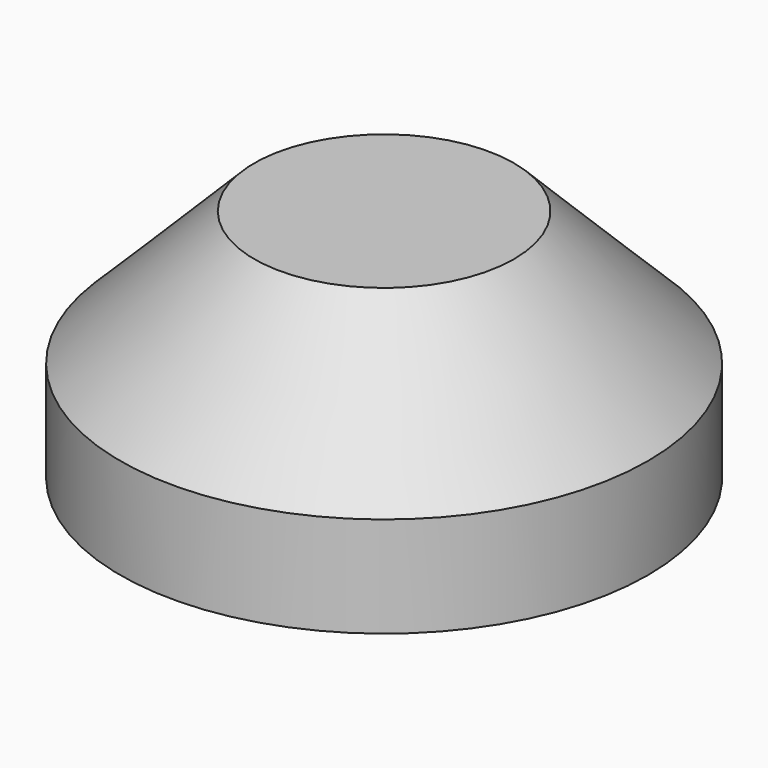
from build123d import *

# Parameters (mm, degrees)
F0_R          = 39.385
F1_DEPTH      = 25
F1_DEPTH_BACK = 10
F2_SIZE       = 20
F3_T          = -2


with BuildPart() as f1:
    # F0 (on Top) → F1 (new body, two sides)
    with BuildSketch(Plane.XY) as f1_sk:
        Circle(F0_R)
    extrude(amount=F1_DEPTH)
    extrude(f1_sk.sketch, amount=-F1_DEPTH_BACK)

    # F2
    f2_edges = [f1.edges().sort_by_distance(p)[0] for p in [
        (-39.385, 0, 25),
    ]]
    chamfer(f2_edges, length=F2_SIZE)

    # F3
    f3_openings = [f1.faces().sort_by_distance(p)[0] for p in [
        (0, 0, -10),
    ]]
    offset(amount=F3_T, openings=f3_openings)


solid = f1.part
